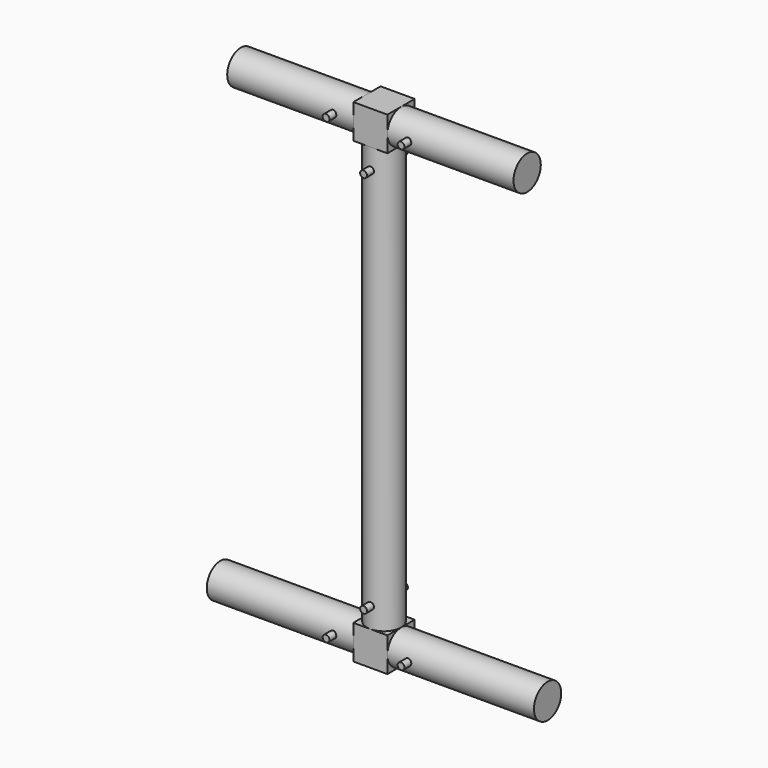
from build123d import *

# Parameters (mm, degrees)
CYLINDER_R                = 10
CYLINDER_DEPTH            = 86
CYLINDER002_R             = 10
CYLINDER002_DEPTH         = 86
CYLINDER003_R             = 10
CYLINDER003_DEPTH         = 74
CYLINDER004_R             = 10
CYLINDER004_DEPTH         = 74
CYLINDER005_R             = 10
CYLINDER005_DEPTH         = 74
CYLINDER006_R             = 10
CYLINDER006_DEPTH         = 101
CYLINDER007_R             = 10
CYLINDER007_DEPTH         = 74
TUBE_R                    = 10
TUBE_R_2                  = 7.75
TUBE_DEPTH                = 249
CYLINDER012_R             = 2
CYLINDER012_DEPTH         = 30
CYLINDER013_R             = 2
CYLINDER013_DEPTH         = 30
CYLINDER014_R             = 2
CYLINDER014_DEPTH         = 30
CYLINDER009_R             = 7.75
CYLINDER009_DEPTH         = 30
CYLINDER008_R             = 7.75
CYLINDER008_DEPTH         = 60
BOX_W                     = 20
BOX_H                     = 20
BOX_DEPTH                 = 20
CYLINDER017_R             = 2.5
CYLINDER017_DEPTH         = 30
CYLINDER018_R             = 2.5
CYLINDER018_DEPTH         = 30
CYLINDER019_R             = 2.5
CYLINDER019_DEPTH         = 30
CYLINDER016_R             = 7.75
CYLINDER016_DEPTH         = 30
CYLINDER015_R             = 7.75
CYLINDER015_DEPTH         = 60
BOX001_W                  = 20
BOX001_H                  = 20
BOX001_DEPTH              = 20
CUT001_PLACEMENT_ANGLE    = 180
CYLINDER020_R             = 2
CYLINDER020_DEPTH         = 30
CYLINDER021_R             = 2
CYLINDER021_DEPTH         = 30
CYLINDER022_R             = 2
CYLINDER022_DEPTH         = 30
CYLINDER023_R             = 2
CYLINDER023_DEPTH         = 30
CYLINDER024_R             = 2
CYLINDER024_DEPTH         = 30
CYLINDER025_R             = 2
CYLINDER025_DEPTH         = 30
FUSION006_PLACEMENT_ANGLE = 180


with BuildPart() as cadera_izquierda:
    # Cylinder → Cylinder (new body)
    with BuildSketch(Plane(origin=(10, 0, 0), x_dir=(0, 0, -1), z_dir=(1, 0, 0))):
        Circle(CYLINDER_R)
    extrude(amount=CYLINDER_DEPTH)


with BuildPart() as obj1:
    # Cylinder002 → Cylinder002 (new body)
    with BuildSketch(Plane(origin=(-96, 0, 0), x_dir=(0, 0, -1), z_dir=(1, 0, 0))):
        Circle(CYLINDER002_R)
    extrude(amount=CYLINDER002_DEPTH)


with BuildPart() as obj2:
    # Cylinder003 → Cylinder003 (new body)
    with BuildSketch(Plane(origin=(-84, 0, 269), x_dir=(0, 0, -1), z_dir=(1, 0, 0))):
        Circle(CYLINDER003_R)
    extrude(amount=CYLINDER003_DEPTH)


with BuildPart() as obj3:
    # Cylinder004 → Cylinder004 (new body)
    with BuildSketch(Plane(origin=(10, 0, 269), x_dir=(0, 0, -1), z_dir=(1, 0, 0))):
        Circle(CYLINDER004_R)
    extrude(amount=CYLINDER004_DEPTH)


with BuildPart() as vertebral001:
    # Cylinder005 → Cylinder005 (new body)
    with BuildSketch(Plane.XY.offset(185)):
        Circle(CYLINDER005_R)
    extrude(amount=CYLINDER005_DEPTH)


with BuildPart() as vertebral002:
    # Cylinder006 → Cylinder006 (new body)
    with BuildSketch(Plane.XY.offset(84)):
        Circle(CYLINDER006_R)
    extrude(amount=CYLINDER006_DEPTH)


with BuildPart() as vertebral003:
    # Cylinder007 → Cylinder007 (new body)
    with BuildSketch(Plane.XY.offset(10)):
        Circle(CYLINDER007_R)
    extrude(amount=CYLINDER007_DEPTH)


with BuildPart() as obj4:
    # Tube → Tube (new body)
    with BuildSketch(Plane.XY.offset(10)):
        Circle(TUBE_R)
        Circle(TUBE_R_2, mode=Mode.SUBTRACT)
    extrude(amount=TUBE_DEPTH)


with BuildPart() as taladros:
    # Cylinder012 → Cylinder012 (new body)
    with BuildSketch(Plane(origin=(22, 15, 0), x_dir=(1, 0, 0), z_dir=(0, -1, 0))):
        Circle(CYLINDER012_R)
    extrude(amount=CYLINDER012_DEPTH)


with BuildPart() as taladros001:
    # Cylinder013 → Cylinder013 (new body)
    with BuildSketch(Plane(origin=(-22, 15, 0), x_dir=(1, 0, 0), z_dir=(0, -1, 0))):
        Circle(CYLINDER013_R)
    extrude(amount=CYLINDER013_DEPTH)


with BuildPart() as obj5:
    # Cylinder014 → Cylinder014 (new body)
    with BuildSketch(Plane(origin=(0, 15, 22), x_dir=(1, 0, 0), z_dir=(0, -1, 0))):
        Circle(CYLINDER014_R)
    extrude(amount=CYLINDER014_DEPTH)

    # Fusion002: union Taladros, Taladros001
    add(taladros.part)
    add(taladros001.part)


with BuildPart() as obj6:
    # Cylinder009 → Cylinder009 (new body)
    with BuildSketch(Plane.XY):
        Circle(CYLINDER009_R)
    extrude(amount=CYLINDER009_DEPTH)


with BuildPart() as obj7:
    # Cylinder008 → Cylinder008 (new body)
    with BuildSketch(Plane(origin=(-30, 0, 0), x_dir=(0, 0, -1), z_dir=(1, 0, 0))):
        Circle(CYLINDER008_R)
    extrude(amount=CYLINDER008_DEPTH)


with BuildPart() as obj8:
    # Box → Box (new body)
    with BuildSketch(Plane(origin=(-10, -10, -10), x_dir=(1, 0, 0), z_dir=(0, 0, 1))):
        with Locations((10, 10)):
            Rectangle(BOX_W, BOX_H)
    extrude(amount=BOX_DEPTH)

    # Fusion001: union obj6, obj7
    add(obj6.part)
    add(obj7.part)

    # Cut: cut obj5
    add(obj5.part, mode=Mode.SUBTRACT)


with BuildPart() as taladros003:
    # Cylinder017 → Cylinder017 (new body)
    with BuildSketch(Plane(origin=(20, 15, 0), x_dir=(1, 0, 0), z_dir=(0, -1, 0))):
        Circle(CYLINDER017_R)
    extrude(amount=CYLINDER017_DEPTH)


with BuildPart() as taladros004:
    # Cylinder018 → Cylinder018 (new body)
    with BuildSketch(Plane(origin=(-20, 15, 0), x_dir=(1, 0, 0), z_dir=(0, -1, 0))):
        Circle(CYLINDER018_R)
    extrude(amount=CYLINDER018_DEPTH)


with BuildPart() as obj9:
    # Cylinder019 → Cylinder019 (new body)
    with BuildSketch(Plane(origin=(0, 15, 20), x_dir=(1, 0, 0), z_dir=(0, -1, 0))):
        Circle(CYLINDER019_R)
    extrude(amount=CYLINDER019_DEPTH)

    # Fusion004: union Taladros003, Taladros004
    add(taladros003.part)
    add(taladros004.part)


with BuildPart() as obj10:
    # Cylinder016 → Cylinder016 (new body)
    with BuildSketch(Plane.XY):
        Circle(CYLINDER016_R)
    extrude(amount=CYLINDER016_DEPTH)


with BuildPart() as obj11:
    # Cylinder015 → Cylinder015 (new body)
    with BuildSketch(Plane(origin=(-30, 0, 0), x_dir=(0, 0, -1), z_dir=(1, 0, 0))):
        Circle(CYLINDER015_R)
    extrude(amount=CYLINDER015_DEPTH)


with BuildPart() as obj12:
    # Box001 → Box001 (new body)
    with BuildSketch(Plane(origin=(-10, -10, -10), x_dir=(1, 0, 0), z_dir=(0, 0, 1))):
        with Locations((10, 10)):
            Rectangle(BOX001_W, BOX001_H)
    extrude(amount=BOX001_DEPTH)

    # Fusion003: union obj10, obj11
    add(obj10.part)
    add(obj11.part)

    # Cut001: cut obj9
    add(obj9.part, mode=Mode.SUBTRACT)


with BuildPart() as obj12_1:
    # Cut001 placement: moved
    add(obj12.part.moved(Location((0, 0, 269))).rotate(Axis((0, 0, 269), (1, 0, 0)), CUT001_PLACEMENT_ANGLE))


with BuildPart() as taladros006:
    # Cylinder020 → Cylinder020 (new body)
    with BuildSketch(Plane(origin=(22, 15, 0), x_dir=(1, 0, 0), z_dir=(0, -1, 0))):
        Circle(CYLINDER020_R)
    extrude(amount=CYLINDER020_DEPTH)


with BuildPart() as taladros007:
    # Cylinder021 → Cylinder021 (new body)
    with BuildSketch(Plane(origin=(-22, 15, 0), x_dir=(1, 0, 0), z_dir=(0, -1, 0))):
        Circle(CYLINDER021_R)
    extrude(amount=CYLINDER021_DEPTH)


with BuildPart() as obj13:
    # Cylinder022 → Cylinder022 (new body)
    with BuildSketch(Plane(origin=(0, 15, 22), x_dir=(1, 0, 0), z_dir=(0, -1, 0))):
        Circle(CYLINDER022_R)
    extrude(amount=CYLINDER022_DEPTH)

    # Fusion005: union Taladros006, Taladros007
    add(taladros006.part)
    add(taladros007.part)


with BuildPart() as taladros009:
    # Cylinder023 → Cylinder023 (new body)
    with BuildSketch(Plane(origin=(22, 15, 0), x_dir=(1, 0, 0), z_dir=(0, -1, 0))):
        Circle(CYLINDER023_R)
    extrude(amount=CYLINDER023_DEPTH)


with BuildPart() as taladros010:
    # Cylinder024 → Cylinder024 (new body)
    with BuildSketch(Plane(origin=(-22, 15, 0), x_dir=(1, 0, 0), z_dir=(0, -1, 0))):
        Circle(CYLINDER024_R)
    extrude(amount=CYLINDER024_DEPTH)


with BuildPart() as obj14:
    # Cylinder025 → Cylinder025 (new body)
    with BuildSketch(Plane(origin=(0, 15, 22), x_dir=(1, 0, 0), z_dir=(0, -1, 0))):
        Circle(CYLINDER025_R)
    extrude(amount=CYLINDER025_DEPTH)

    # Fusion006: union Taladros009, Taladros010
    add(taladros009.part)
    add(taladros010.part)


with BuildPart() as obj14_1:
    # Fusion006 placement: moved
    add(obj14.part.moved(Location((0, 0, 269))).rotate(Axis((0, 0, 269), (1, 0, 0)), FUSION006_PLACEMENT_ANGLE))


solid = Compound([cadera_izquierda.part, obj1.part, obj2.part, obj3.part, vertebral001.part, vertebral002.part, vertebral003.part, obj4.part, obj8.part, obj12_1.part, obj13.part, obj14_1.part])
